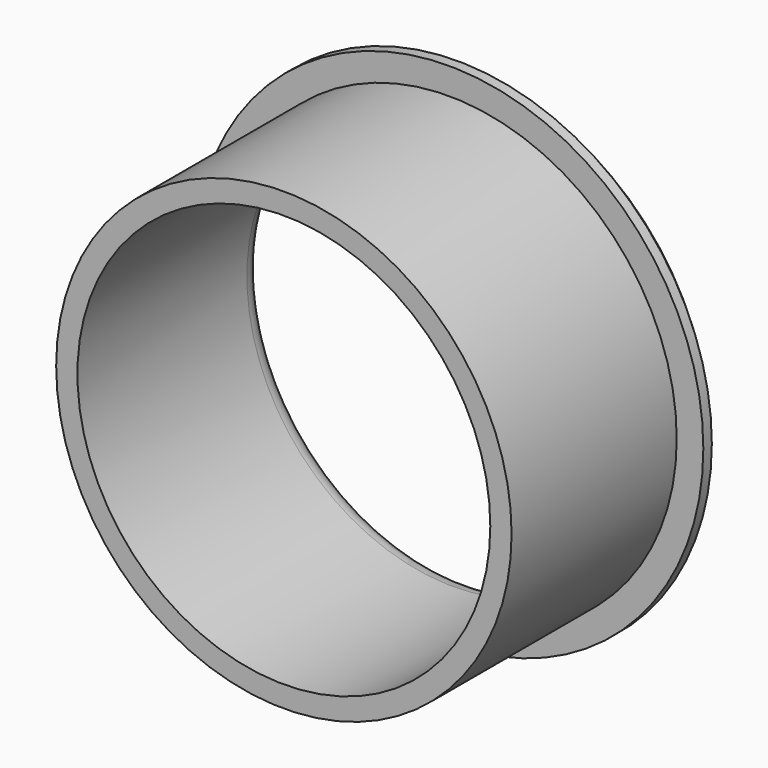
from build123d import *

# Parameters (mm, degrees)
F0_R     = 27.178
F0_R_2   = 24.638
F1_DEPTH = 27.813
F0_R_3   = 30.353
F2_DEPTH = 3.175
F3_R     = 2.54
F4_SIZE  = 1.905


with BuildPart() as f1:
    # F0 (on Front) → F1 (new body)
    with BuildSketch(Plane.XZ):
        Circle(F0_R)
        Circle(F0_R_2, mode=Mode.SUBTRACT)
    extrude(amount=F1_DEPTH)

    # F0 (on Front) → F2 (join)
    with BuildSketch(Plane.XZ):
        Circle(F0_R_3)
        Circle(F0_R, mode=Mode.SUBTRACT)
    extrude(amount=F2_DEPTH)

    # F3
    f3_edges = [f1.edges().sort_by_distance(p)[0] for p in [
        (-24.638, 0, 0),
    ]]
    fillet(f3_edges, radius=F3_R)

    # F4
    f4_edges = [f1.edges().sort_by_distance(p)[0] for p in [
        (-30.353, 0, 0),
    ]]
    chamfer(f4_edges, length=F4_SIZE)


solid = f1.part
